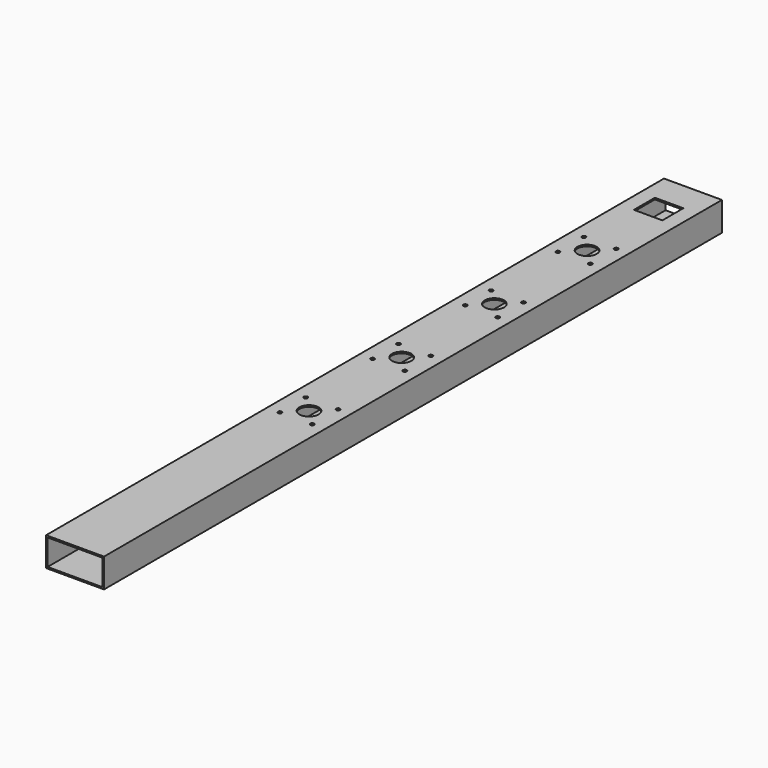
from build123d import *

# Parameters (mm, degrees)
F0_W     = 150
F0_H     = 75
F0_W_2   = 142
F0_H_2   = 67
F1_DEPTH = 2000
F2_W     = 73.76644
F2_H     = 67.936434
F2_R     = 25
F2_R_2   = 5
F3_DEPTH = 75.001


with BuildPart() as f1:
    # F0 (on Front) → F1 (new body)
    with BuildSketch(Plane.XZ):
        Rectangle(F0_W, F0_H)
        Rectangle(F0_W_2, F0_H_2, mode=Mode.SUBTRACT)
    extrude(amount=F1_DEPTH)

    # F2 (on face) → F3 (cut, through all)
    with BuildSketch(Plane.XY.offset(37.5)):
        with Locations((0, -111.129969)):
            Rectangle(F2_W, F2_H)
        with Locations((0, -342.75926)):
            Circle(F2_R)
        with Locations((-41.88322, -300.87604)):
            Circle(F2_R_2)
        with Locations((41.88322, -300.87604)):
            Circle(F2_R_2)
        with Locations((41.88322, -384.64248)):
            Circle(F2_R_2)
        with Locations((-41.88322, -384.64248)):
            Circle(F2_R_2)
        with Locations((-41.88322, -684.64248)):
            Circle(F2_R_2)
        with Locations((41.88322, -684.64248)):
            Circle(F2_R_2)
        with Locations((41.88322, -600.87604)):
            Circle(F2_R_2)
        with Locations((-41.88322, -600.87604)):
            Circle(F2_R_2)
        with Locations((0, -642.75926)):
            Circle(F2_R)
        with Locations((-41.88322, -984.64248)):
            Circle(F2_R_2)
        with Locations((41.88322, -984.64248)):
            Circle(F2_R_2)
        with Locations((41.88322, -900.87604)):
            Circle(F2_R_2)
        with Locations((-41.88322, -900.87604)):
            Circle(F2_R_2)
        with Locations((0, -942.75926)):
            Circle(F2_R)
        with Locations((-41.88322, -1284.64248)):
            Circle(F2_R_2)
        with Locations((41.88322, -1284.64248)):
            Circle(F2_R_2)
        with Locations((41.88322, -1200.87604)):
            Circle(F2_R_2)
        with Locations((-41.88322, -1200.87604)):
            Circle(F2_R_2)
        with Locations((0, -1242.75926)):
            Circle(F2_R)
    extrude(amount=-F3_DEPTH, mode=Mode.SUBTRACT)


solid = f1.part
